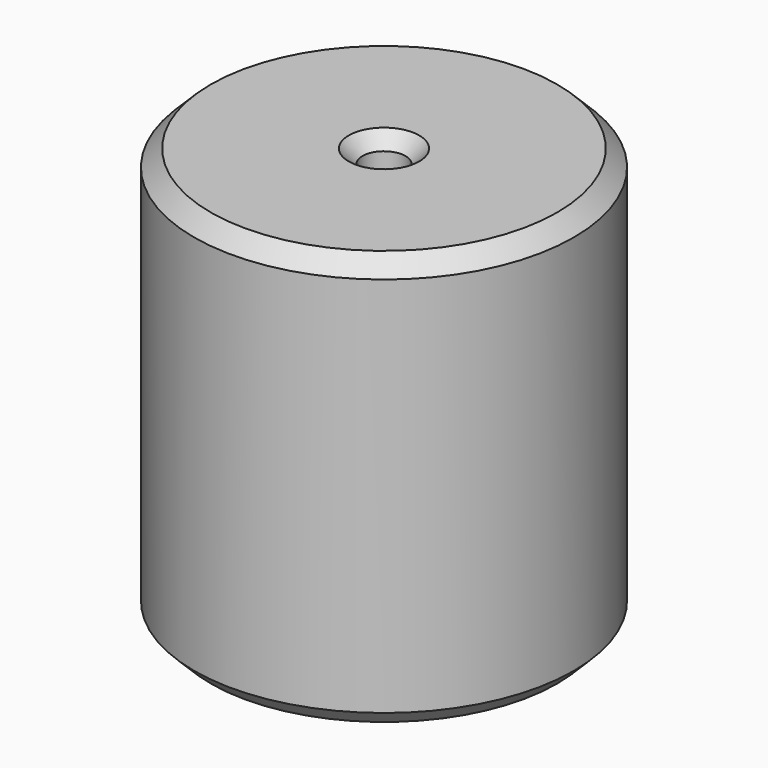
from build123d import *

# Parameters (mm, degrees)
F0_R     = 58.136041623
F0_R_2   = 5.7090569563
F1_DEPTH = 127
F2_SIZE  = 5.08
F3_SIZE  = 5.08
F4_D     = 13.2


with BuildPart() as f1:
    # F0 (on Top) → F1 (new body)
    with BuildSketch(Plane.XY):
        Circle(F0_R)
        Circle(F0_R_2, mode=Mode.SUBTRACT)
    extrude(amount=F1_DEPTH)

    # F2
    f2_edges = [f1.edges().sort_by_distance(p)[0] for p in [
        (-58.136042, 0, 127),
        (-5.709057, 0, 127),
    ]]
    chamfer(f2_edges, length=F2_SIZE)

    # F3
    f3_edges = [f1.edges().sort_by_distance(p)[0] for p in [
        (-58.136042, 0, 0),
        (-5.709057, 0, 0),
    ]]
    chamfer(f3_edges, length=F3_SIZE)

    # F4 (through all)
    with Locations(Plane(origin=(0, 0, 0), x_dir=(1, 0, 0), z_dir=(0, 0, -1))):
        with Locations((0, 0)):
            Hole(F4_D / 2)


solid = f1.part
